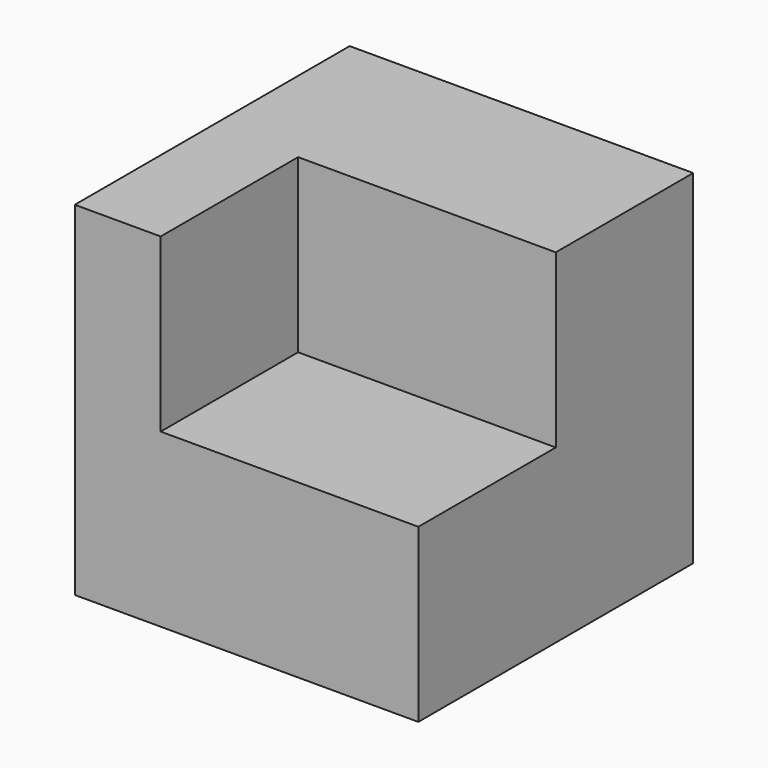
from build123d import *

# Parameters (mm, degrees)
F0_W     = 50.8
F0_H     = 50.8
F1_DEPTH = 50.8
F2_W     = 25.4
F2_H     = 25.4
F3_DEPTH = 38.1


with BuildPart() as f1:
    # F0 (on Right) → F1 (new body)
    with BuildSketch(Plane.YZ):
        with Locations((-1.844201, -5.809575)):
            Rectangle(F0_W, F0_H)
    extrude(amount=-F1_DEPTH)

    # F2 (on face) → F3 (cut)
    with BuildSketch(Plane.YZ):
        with Locations((-14.544201, 6.890425)):
            Rectangle(F2_W, F2_H)
    extrude(amount=-F3_DEPTH, mode=Mode.SUBTRACT)


solid = f1.part
